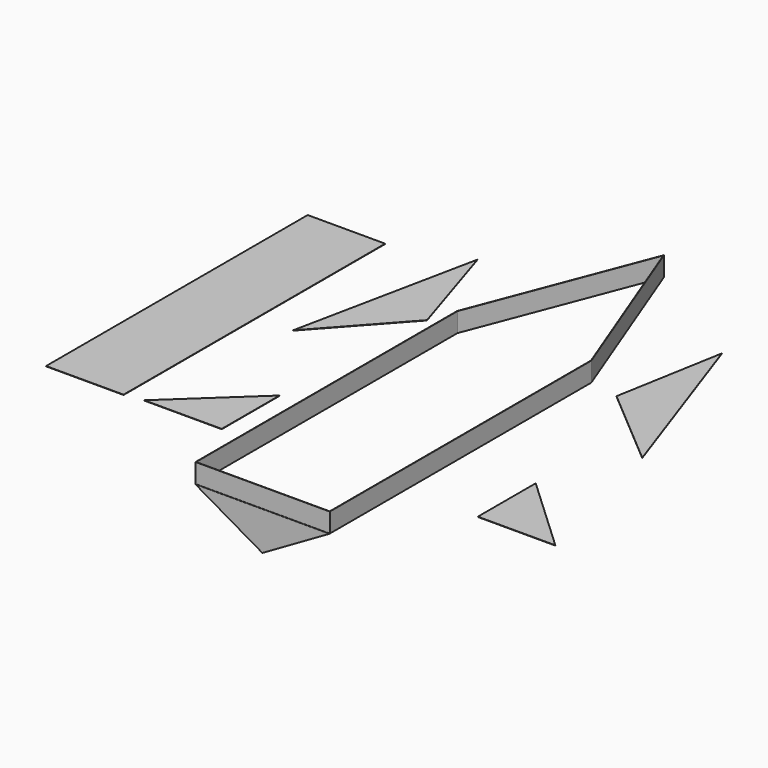
from build123d import *

# Parameters (mm, degrees)
F0_W      = 0.8
F0_H      = 843.032
F1_DEPTH  = 50
F0_W_2    = 172.405
F0_H_2    = 0.8
F2_DEPTH  = 50
F4_DEPTH  = 0.8
F5_W      = 200
F5_H      = 843.832
F6_DEPTH  = 0.8
F8_DEPTH  = 0.8
F10_DEPTH = 0.8
F12_DEPTH = 0.8
F14_DEPTH = 0.8


with BuildPart() as f1:
    # F0 (on Top) → F1 (new body)
    with BuildSketch(Plane.XY):
        with Locations((-172.805, 422.316)):
            Rectangle(F0_W, F0_H)
    extrude(amount=F1_DEPTH)

    # F0 (on Top) → F2 (join)
    with BuildSketch(Plane.XY):
        with Locations((-86.2025, 0.4)):
            Rectangle(F0_W_2, F0_H_2)
        with Locations((86.2025, 0.4)):
            Rectangle(F0_W_2, F0_H_2)
        with Locations((-172.805, 0.4)):
            Rectangle(F0_W, F0_H_2)
        with Locations((172.805, 0.4)):
            Rectangle(F0_W, F0_H_2)
        with Locations((-172.805, 422.316)):
            Rectangle(F0_W, F0_H)
        with Locations((172.805, 422.316)):
            Rectangle(F0_W, F0_H)
        Polygon((-173.205, 843.832), (-172.405, 843.832), (0, 1292.585885), (172.405, 843.832), (173.205, 843.832), (0, 1294.668209), align=None)
    extrude(amount=F2_DEPTH)


with BuildPart() as f4:
    # F3 (on Front) → F4 (new body)
    with BuildSketch(Plane.XZ):
        Polygon((173.205, 0), (0, 0), (0, -100), align=None)
        Polygon((0, -100), (0, 0), (-173.205, 0), align=None)
    extrude(amount=F4_DEPTH)


with BuildPart() as f6:
    # F5 (on Top) → F6 (new body)
    with BuildSketch(Plane.XY):
        with Locations((-629.095813, 634.701297)):
            Rectangle(F5_W, F5_H)
    extrude(amount=F6_DEPTH)


with BuildPart() as f8:
    # F7 (on Top) → F8 (new body)
    with BuildSketch(Plane.XY):
        Polygon((360.972251, 429.596173), (360.972251, 242.994173), (560.972251, 242.994173), align=None)
    extrude(amount=F8_DEPTH)


with BuildPart() as f10:
    # F9 (on Top) → F10 (new body)
    with BuildSketch(Plane.XY):
        Polygon((-481.296679, 219.683858), (-281.296679, 219.683858), (-281.296679, 406.285858), align=None)
    extrude(amount=F10_DEPTH)


with BuildPart() as f12:
    # F11 (on Top) → F12 (new body)
    with BuildSketch(Plane.XY):
        Polygon((-254.887716, 848.616024), (-340.530054, 1118.346241), (-437.863052, 645.292812), align=None)
    extrude(amount=F12_DEPTH)


with BuildPart() as f14:
    # F13 (on Top) → F14 (new body)
    with BuildSketch(Plane.XY):
        Polygon((458.98072, 650.746971), (299.81726, 1106.729704), (250.674826, 828.02911), align=None)
    extrude(amount=F14_DEPTH)


solid = Compound([f1.part, f4.part, f6.part, f8.part, f10.part, f12.part, f14.part])
